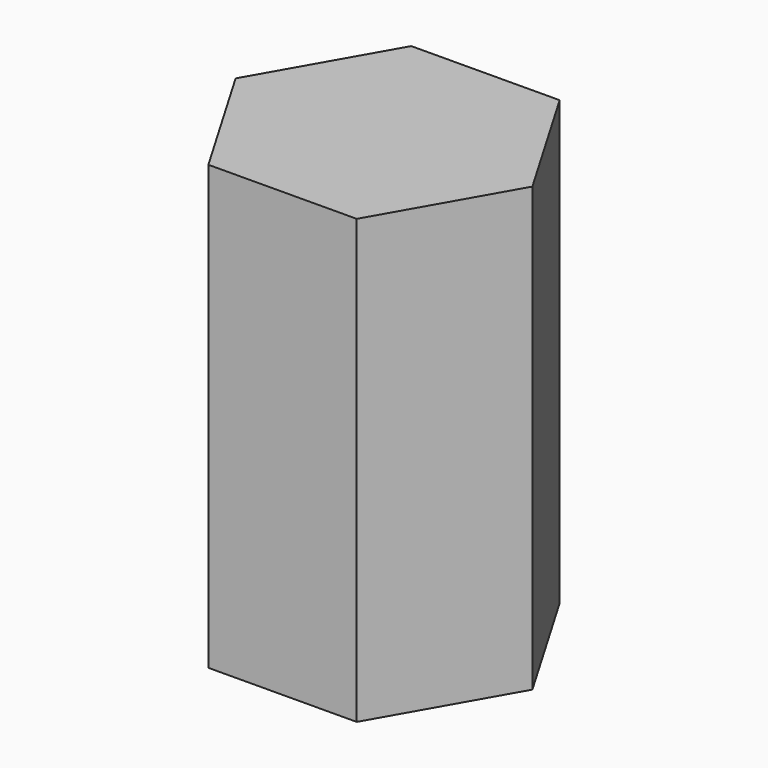
from build123d import *

# Parameters (mm, degrees)
F1_DEPTH = 30
F2_R     = 3.7
F3_DEPTH = 15


with BuildPart() as f1:
    # F0 (on Top) → F1 (new body)
    with BuildSketch(Plane.XY):
        Polygon((4.943737, 8.692737), (-5.056263, 8.627771), (-10, -0.064966), (-4.943737, -8.692737), (5.056263, -8.627771), (10, 0.064966), align=None)
    extrude(amount=F1_DEPTH)

    # F2 (on face) → F3 (cut)
    with BuildSketch(Plane(origin=(0, 0, 0), x_dir=(1, 0, 0), z_dir=(0, 0, -1))):
        Circle(F2_R)
    extrude(amount=-F3_DEPTH, mode=Mode.SUBTRACT)


solid = f1.part
